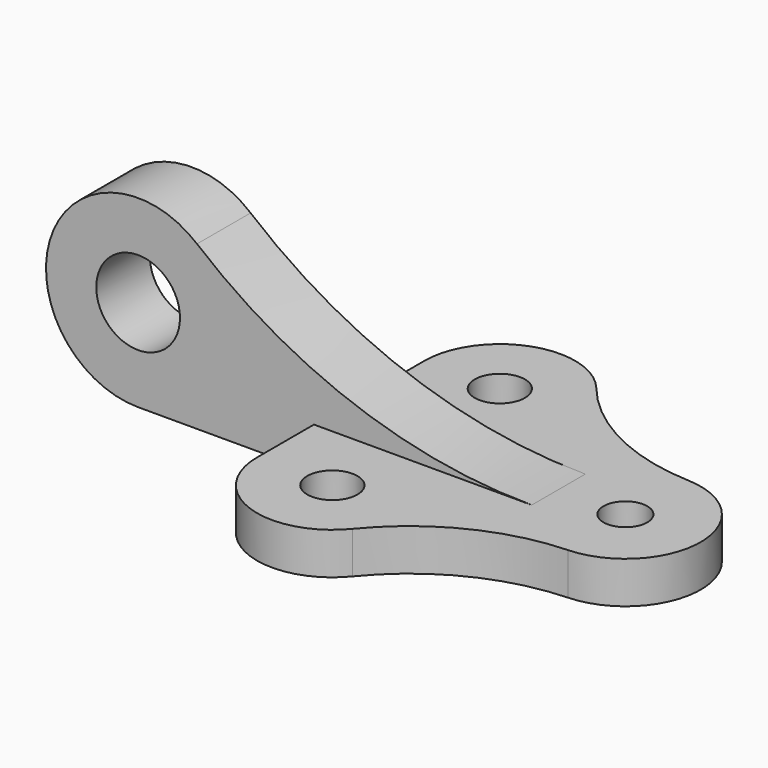
from build123d import *

# Parameters (mm, degrees)
F0_R     = 6
F0_R_2   = 5.236084
F1_DEPTH = 10
F2_R     = 10
F3_DEPTH = 8


with BuildPart() as f1:
    # F0 (on Top) → F1 (new body)
    with BuildSketch(Plane.XY):
        with BuildLine():
            ThreePointArc((4.789302, -36.367918), (21.195339, -23.224109), (41.554008, -17.985565))
            ThreePointArc((41.554008, -17.985565), (58.833284, 0), (41.554008, 17.985565))
            ThreePointArc((41.554008, 17.985565), (21.195339, 23.224109), (4.789302, 36.367918))
            ThreePointArc((4.789302, 36.367918), (-15.199612, 41.958896), (-27.166716, 25))
            Line((-27.166716, 25), (-27.166716, -25))
            ThreePointArc((-27.166716, -25), (-15.199612, -41.958896), (4.789302, -36.367918))
        make_face()
        with Locations((-9.166716, -25)):
            Circle(F0_R, mode=Mode.SUBTRACT)
        with Locations((-9.166716, 25)):
            Circle(F0_R, mode=Mode.SUBTRACT)
        with Locations((40.833284, 0)):
            Circle(F0_R_2, mode=Mode.SUBTRACT)
    extrude(amount=F1_DEPTH)

    # F2 (on Front) → F3 (join, symmetric)
    with BuildSketch(Plane.XZ):
        with BuildLine():
            ThreePointArc((-55.095504, 38.911565), (-89.855534, 29.481496), (-69.166716, 0))
            Line((-69.166716, 0), (-27.166716, 0))
            Line((-27.166716, 0), (0, 0))
            Line((0, 0), (24.854559, 0))
            Line((24.854559, 0), (24.854559, 10))
            ThreePointArc((24.854559, 10), (-17.653944, 17.449895), (-55.095504, 38.911565))
        make_face()
        with Locations((-69.166716, 22)):
            Circle(F2_R, mode=Mode.SUBTRACT)
    extrude(amount=F3_DEPTH, both=True)


solid = f1.part
